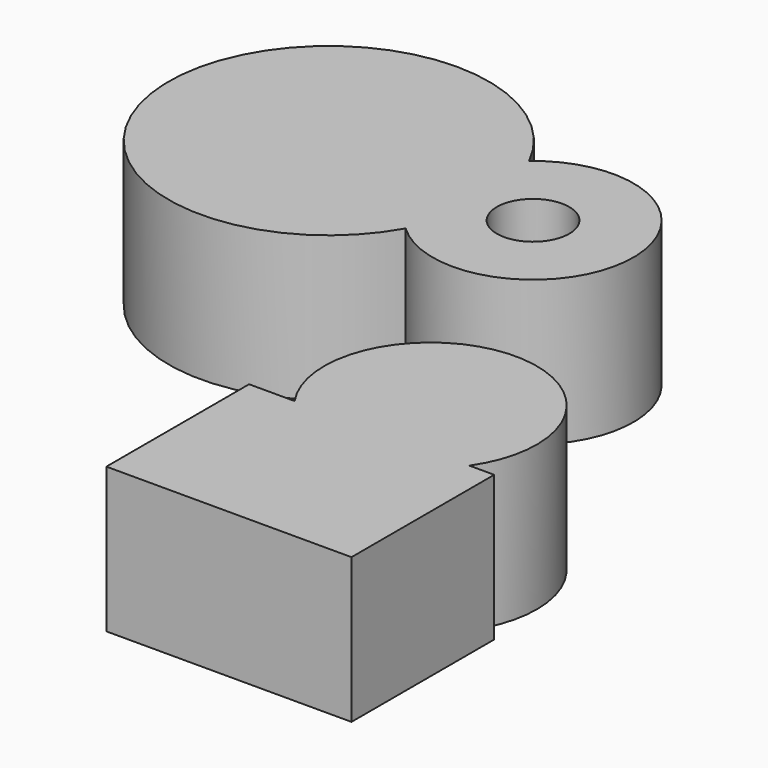
from build123d import *

# Parameters (mm, degrees)
F0_W     = 33.7982140481
F0_H     = 24.5983228087
F1_DEPTH = 20
F2_R     = 13.8471183211
F3_DEPTH = 20
F4_R     = 14.6614237311
F5_DEPTH = 20
F6_D     = 10
F7_R     = 22.0854860792
F8_DEPTH = 20


with BuildPart() as f1:
    # F0 (on Top) → F1 (new body)
    with BuildSketch(Plane.XY):
        with Locations((16.8991070241, -29.146451503)):
            Rectangle(F0_W, F0_H)
    extrude(amount=F1_DEPTH)

    # F4 (on Top) → F5 (join)
    with BuildSketch(Plane.XY):
        with Locations((18.3255169541, -8.4850527346)):
            Circle(F4_R)
    extrude(amount=F5_DEPTH)


with BuildPart() as f3:
    # F2 (on Top) → F3 (new body)
    with BuildSketch(Plane.XY):
        with Locations((0, 32.0972390473)):
            Circle(F2_R)
    extrude(amount=F3_DEPTH)

    # F6 (through all)
    with Locations(Plane(origin=(0, 0, 0), x_dir=(1, 0, 0), z_dir=(0, 0, -1))):
        with Locations((0, -32.0972390473)):
            Hole(F6_D / 2)

    # F7 (on Top) → F8 (join)
    with BuildSketch(Plane.XY):
        with Locations((-28.7847071886, 32.8672938049)):
            Circle(F7_R)
    extrude(amount=F8_DEPTH)


solid = Compound([f1.part, f3.part])
